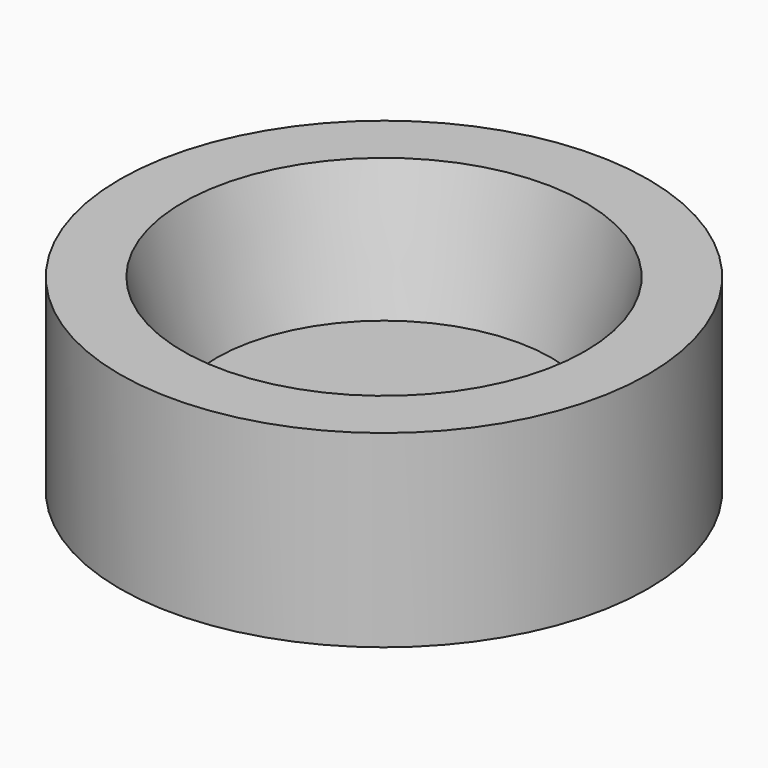
from build123d import *

# Parameters (mm, degrees)
F0_R     = 210
F1_DEPTH = 150
F2_R     = 160
F3_DEPTH = 100
F3_TAPER = 15


with BuildPart() as f1:
    # F0 (on Top) → F1 (new body)
    with BuildSketch(Plane.XY):
        Circle(F0_R)
    extrude(amount=F1_DEPTH)

    # F2 (on face) → F3 (cut)
    with BuildSketch(Plane.XY.offset(150)):
        Circle(F2_R)
    extrude(amount=-F3_DEPTH, taper=F3_TAPER, mode=Mode.SUBTRACT)


solid = f1.part
